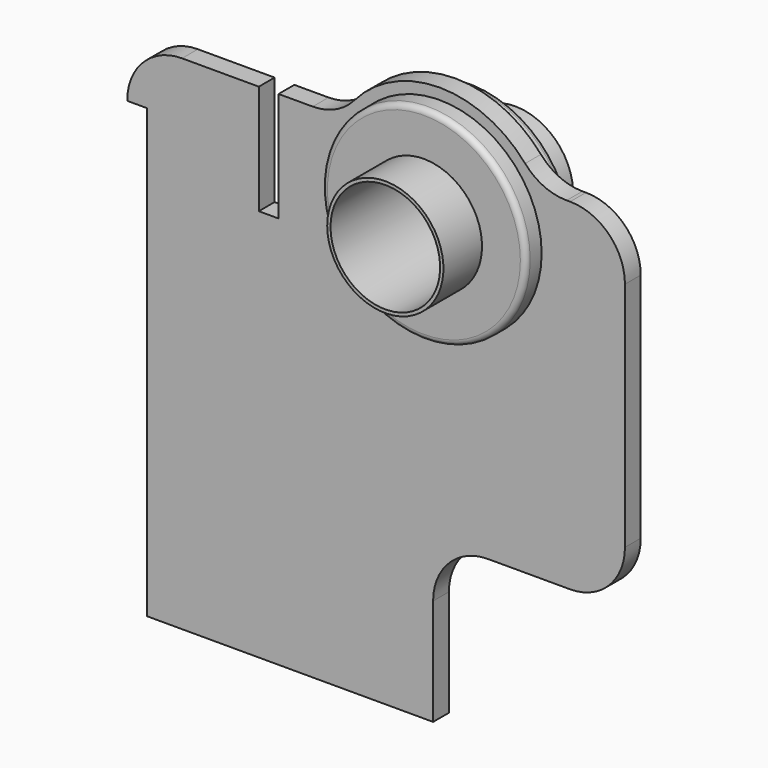
from build123d import *

# Parameters (mm, degrees)
F0_R          = 53
F1_DEPTH      = 18
F2_R          = 53
F2_R_2        = 50
F3_DEPTH      = 68
F3_DEPTH_BACK = 80
F4_R          = 93
F4_R_2        = 53
F5_DEPTH      = 18
F6_R          = 93
F6_R_2        = 53
F7_DEPTH      = 18
F8_R          = 5


with BuildPart() as f1:
    # F0 (on Front) → F1 (new body)
    with BuildSketch(Plane.XZ):
        with BuildLine():
            Line((0, 333.882748), (261, 333.882748))
            Line((261, 333.882748), (261, 431))
            ThreePointArc((261, 431), (275.644661, 466.355339), (311, 481))
            Line((311, 481), (386, 481))
            ThreePointArc((386, 481), (421.355339, 495.644661), (436, 531))
            Line((436, 531), (436, 742.312182))
            ThreePointArc((436, 742.312182), (421.355339, 777.667521), (386, 792.312182))
            Line((386, 792.312182), (382.797237, 792.312182))
            ThreePointArc((382.797237, 792.312182), (361.988427, 796.847982), (344.955002, 809.632443))
            ThreePointArc((344.955002, 809.632443), (267, 845.312182), (189.044998, 809.632443))
            ThreePointArc((189.044998, 809.632443), (172.011573, 796.847982), (151.202763, 792.312182))
            Line((151.202763, 792.312182), (120, 792.312182))
            Line((120, 792.312182), (120, 692.312182))
            Line((120, 692.312182), (102, 692.312182))
            Line((102, 692.312182), (102, 792.312182))
            Line((102, 792.312182), (32, 792.312182))
            ThreePointArc((32, 792.312182), (-3.355339, 777.667521), (-18, 742.312182))
            Line((-18, 742.312182), (-18, 741.883182))
            Line((-18, 741.883182), (0, 741.883182))
            Line((0, 741.883182), (0, 333.882748))
        make_face()
        with Locations((267, 742.312182)):
            Circle(F0_R, mode=Mode.SUBTRACT)
    extrude(amount=F1_DEPTH)

    # F2 (on face) → F3 (join, two sides)
    with BuildSketch(Plane(origin=(0, 0, 0), x_dir=(-1, 0, 0), z_dir=(0, 1, 0))) as f3_sk:
        with Locations((-267, 742.312182)):
            Circle(F2_R)
        with Locations((-267, 742.312182)):
            Circle(F2_R_2, mode=Mode.SUBTRACT)
    extrude(amount=F3_DEPTH)
    extrude(f3_sk.sketch, amount=-F3_DEPTH_BACK)

    # F4 (on face) → F5 (join)
    with BuildSketch(Plane(origin=(0, 0, 0), x_dir=(-1, 0, 0), z_dir=(0, 1, 0))):
        with Locations((-267, 742.312182)):
            Circle(F4_R)
        with Locations((-267, 742.312182)):
            Circle(F4_R_2, mode=Mode.SUBTRACT)
    extrude(amount=F5_DEPTH)

    # F6 (on face) → F7 (join)
    with BuildSketch(Plane.XZ.offset(18)):
        with Locations((267, 742.312182)):
            Circle(F6_R)
        with Locations((267, 742.312182)):
            Circle(F6_R_2, mode=Mode.SUBTRACT)
    extrude(amount=F7_DEPTH)

    # F8
    f8_edges = [f1.edges().sort_by_distance(p)[0] for p in [
        (360, 18, 742.312182),
        (174, -36, 742.312182),
    ]]
    fillet(f8_edges, radius=F8_R)


solid = f1.part
